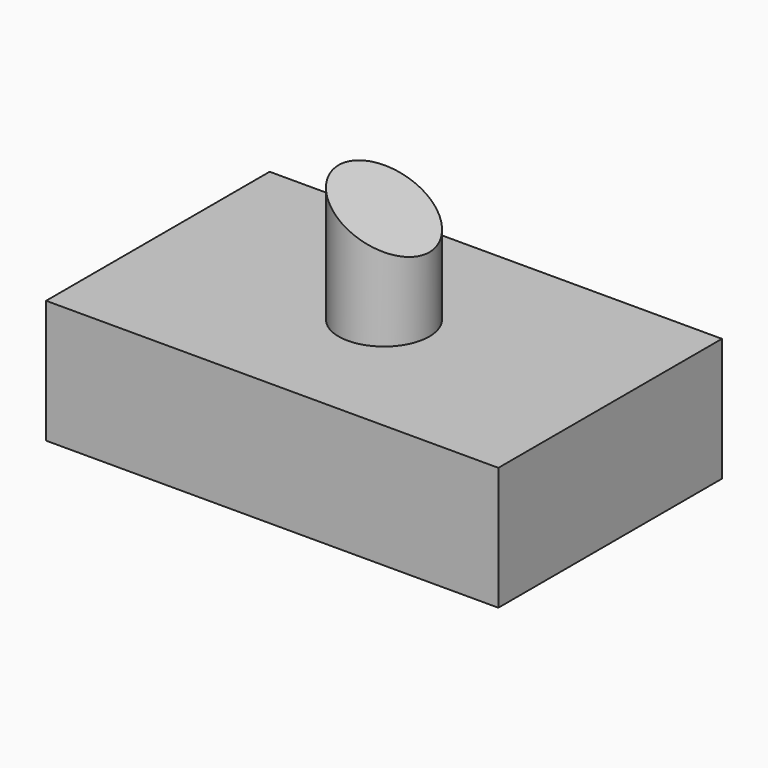
from build123d import *

# Parameters (mm, degrees)
F0_R     = 9.349466
F1_DEPTH = 50.8
F0_W     = 93.26841
F0_H     = 57.62465
F2_DEPTH = 25.4
F4_DEPTH = 25.4
F5_DEPTH = 76.2


with BuildPart() as f1:
    # F0 (on Top) → F1 (new body)
    with BuildSketch(Plane.XY):
        Circle(F0_R)
    extrude(amount=F1_DEPTH)

    # F0 (on Top) → F2 (join)
    with BuildSketch(Plane.XY):
        Rectangle(F0_W, F0_H)
        Circle(F0_R, mode=Mode.SUBTRACT)
    extrude(amount=F2_DEPTH)

    # F3 (on Front) → F4 (cut)
    with BuildSketch(Plane.XZ):
        Polygon((29.052887, 52.606806), (-13.472474, 52.606806), (29.052887, 30.427627), align=None)
    extrude(amount=-F4_DEPTH, mode=Mode.SUBTRACT)

    # F3 (on Front) → F5 (cut)
    with BuildSketch(Plane.XZ):
        Polygon((29.052887, 52.606806), (-13.472474, 52.606806), (29.052887, 30.427627), align=None)
    extrude(amount=F5_DEPTH, mode=Mode.SUBTRACT)


solid = f1.part
